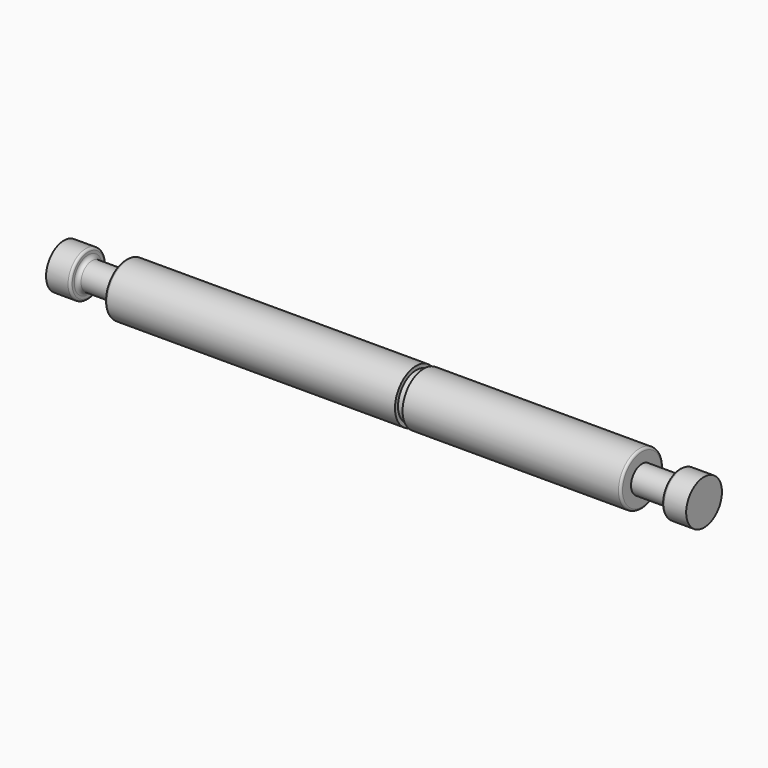
from build123d import *

# Parameters (mm, degrees)
F0_W = 5
F0_H = 1.8
F2_R = 0.5
F3_R = 0.3


with BuildPart() as f1:
    # F0 (on Front) → F1 (revolve)
    with BuildSketch(Plane.XZ):
        Polygon((4.25, 3.5), (-34.05, 3.5), (-34.05, 1.8), (-34.05, 0), (34.05, 0), (34.05, 1.8), (34.05, 3.5), (5.25, 3.5), (5.25, 3), (4.25, 3), align=None)
        with Locations((-36.55, 0.9)):
            Rectangle(F0_W, F0_H)
        Polygon((-39.05, 0), (-39.05, 1.8), (-39.05, 2.95), (-42.25, 2.95), (-42.25, 0), align=None)
        with Locations((36.55, 0.9)):
            Rectangle(F0_W, F0_H)
        Polygon((39.05, 1.8), (39.05, 0), (42.25, 0), (42.25, 2.95), (39.05, 2.95), align=None)
    revolve(axis=Axis((0, 0, 0), (1, 0, 0)))

    # F2
    f2_edges = [f1.edges().sort_by_distance(p)[0] for p in [
        (-39.05, 0, -1.8),
        (39.05, 0, -1.8),
    ]]
    fillet(f2_edges, radius=F2_R)

    # F3
    f3_edges = [f1.edges().sort_by_distance(p)[0] for p in [
        (-34.05, 0, -3.5),
        (34.05, 0, -3.5),
        (39.05, 0, -2.95),
        (-39.05, 0, -2.95),
    ]]
    fillet(f3_edges, radius=F3_R)


solid = f1.part
